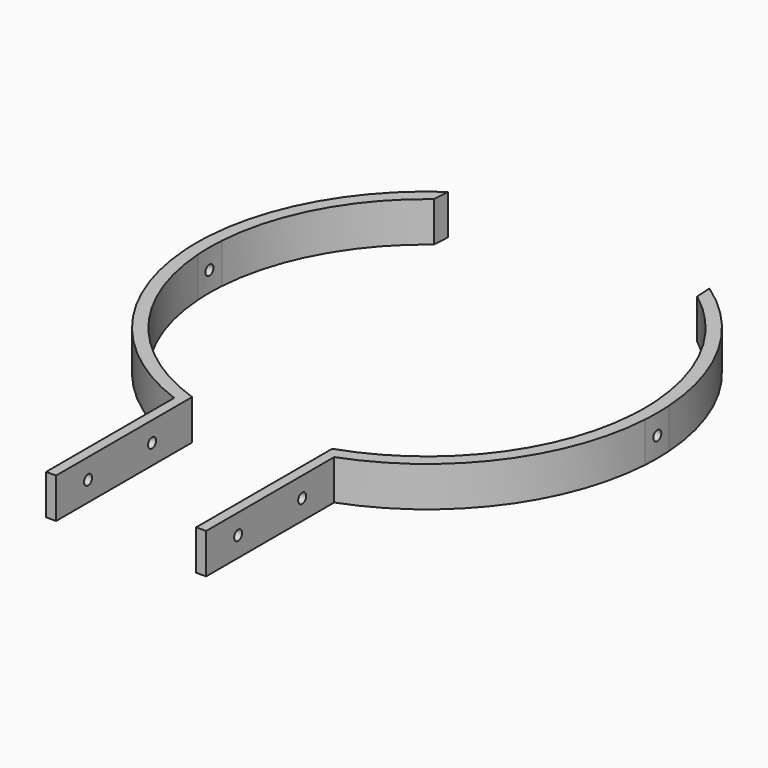
from build123d import *

# Parameters (mm, degrees)
F1_DEPTH = 25.4
F2_R     = 3.175
F3_DEPTH = 203.2


with BuildPart() as f1:
    # F0 (on Top) → F1 (new body)
    with BuildSketch(Plane.XY):
        with BuildLine():
            Line((-44.45, -238.714138), (-44.45, -130.764139))
            ThreePointArc((-44.45, -130.764139), (-109.439522, -84.249948), (-137.78366, -9.525))
            Line((-137.78366, -9.525), (-145.911621, -9.525))
            ThreePointArc((-145.911621, -9.525), (-117.233154, -87.391729), (-50.8, -137.114138))
            Line((-50.8, -137.114138), (-50.8, -238.714138))
            Line((-50.8, -238.714138), (-44.45, -238.714138))
        make_face()
        with BuildLine():
            Line((-145.911621, -9.525), (-137.78366, -9.525))
            ThreePointArc((-137.78366, -9.525), (-138.1125, 0), (-137.78366, 9.525))
            Line((-137.78366, 9.525), (-145.911621, 9.525))
            Line((-145.911621, 9.525), (-145.911621, -9.525))
        make_face()
        with BuildLine():
            Line((-145.911621, 9.525), (-137.78366, 9.525))
            ThreePointArc((-137.78366, 9.525), (-121.524353, 65.626932), (-83.529033, 109.990742))
            Line((-83.529033, 109.990742), (-82.984253, 120.393275))
            ThreePointArc((-82.984253, 120.393275), (-127.166323, 72.177926), (-145.911621, 9.525))
        make_face()
        with BuildLine():
            ThreePointArc((-145.911621, 9.525), (-146.222183, 0), (-145.911621, -9.525))
            Line((-145.911621, -9.525), (-145.911621, 9.525))
        make_face()
        with BuildLine():
            ThreePointArc((145.911621, 9.525), (127.166323, 72.177926), (82.984253, 120.393275))
            Line((82.984253, 120.393275), (83.529033, 109.990742))
            ThreePointArc((83.529033, 109.990742), (121.524353, 65.626932), (137.78366, 9.525))
            Line((137.78366, 9.525), (145.911621, 9.525))
        make_face()
        with BuildLine():
            Line((145.911621, -9.525), (145.911621, 9.525))
            Line((145.911621, 9.525), (137.78366, 9.525))
            ThreePointArc((137.78366, 9.525), (138.1125, 0), (137.78366, -9.525))
            Line((137.78366, -9.525), (145.911621, -9.525))
        make_face()
        with BuildLine():
            ThreePointArc((145.911621, -9.525), (146.222183, 0), (145.911621, 9.525))
            Line((145.911621, 9.525), (145.911621, -9.525))
        make_face()
        with BuildLine():
            ThreePointArc((50.8, -137.114138), (117.233154, -87.391729), (145.911621, -9.525))
            Line((145.911621, -9.525), (137.78366, -9.525))
            ThreePointArc((137.78366, -9.525), (109.439522, -84.249948), (44.45, -130.764139))
            Line((44.45, -130.764139), (44.45, -238.714138))
            Line((44.45, -238.714138), (50.8, -238.714138))
            Line((50.8, -238.714138), (50.8, -137.114138))
        make_face()
    extrude(amount=F1_DEPTH)

    # F2 (on Right) → F3 (cut, symmetric)
    with BuildSketch(Plane.YZ):
        with Locations((0, 12.7)):
            Circle(F2_R)
        with Locations((-162.514138, 12.7)):
            Circle(F2_R)
        with Locations((-213.314138, 12.7)):
            Circle(F2_R)
    extrude(amount=F3_DEPTH, both=True, mode=Mode.SUBTRACT)


solid = f1.part
